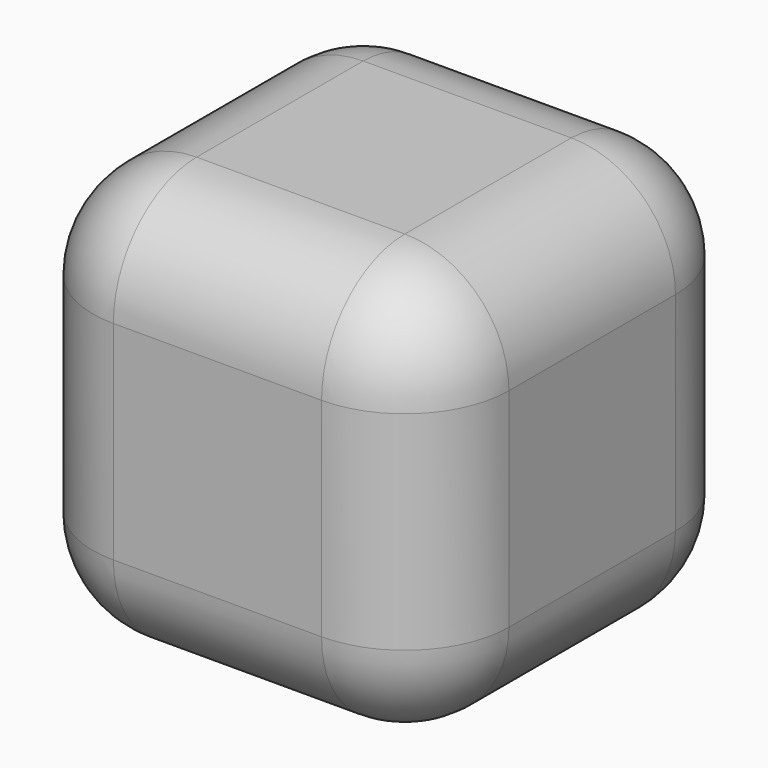
from build123d import *

# Parameters (mm, degrees)
F1_DEPTH = 15.24
F2_R     = 3.81


with BuildPart() as f1:
    # F0 (on Top) → F1 (new body)
    with BuildSketch(Plane.XY):
        with BuildLine():
            Line((-3.81, -7.62), (3.81, -7.62))
            ThreePointArc((3.81, -7.62), (6.5040768363, -6.5040768363), (7.62, -3.81))
            Line((7.62, -3.81), (7.62, 3.81))
            ThreePointArc((7.62, 3.81), (6.5040768363, 6.5040768363), (3.81, 7.62))
            Line((3.81, 7.62), (-3.81, 7.62))
            ThreePointArc((-3.81, 7.62), (-6.5040768363, 6.5040768363), (-7.62, 3.81))
            Line((-7.62, 3.81), (-7.62, -3.81))
            ThreePointArc((-7.62, -3.81), (-6.5040768363, -6.5040768363), (-3.81, -7.62))
        make_face()
    extrude(amount=F1_DEPTH)

    # F2
    f2_edges = [f1.edges().sort_by_distance(p)[0] for p in [
        (-7.62, 0, 15.24),
        (-6.504077, -6.504077, 15.24),
        (0, -7.62, 15.24),
        (6.504077, -6.504077, 15.24),
        (7.62, 0, 15.24),
        (6.504077, 6.504077, 15.24),
        (0, 7.62, 15.24),
        (-6.504077, 6.504077, 15.24),
        (-7.62, 0, 0),
        (-6.504077, -6.504077, 0),
        (0, -7.62, 0),
        (6.504077, -6.504077, 0),
        (7.62, 0, 0),
        (6.504077, 6.504077, 0),
        (0, 7.62, 0),
        (-6.504077, 6.504077, 0),
    ]]
    fillet(f2_edges, radius=F2_R)


solid = f1.part
